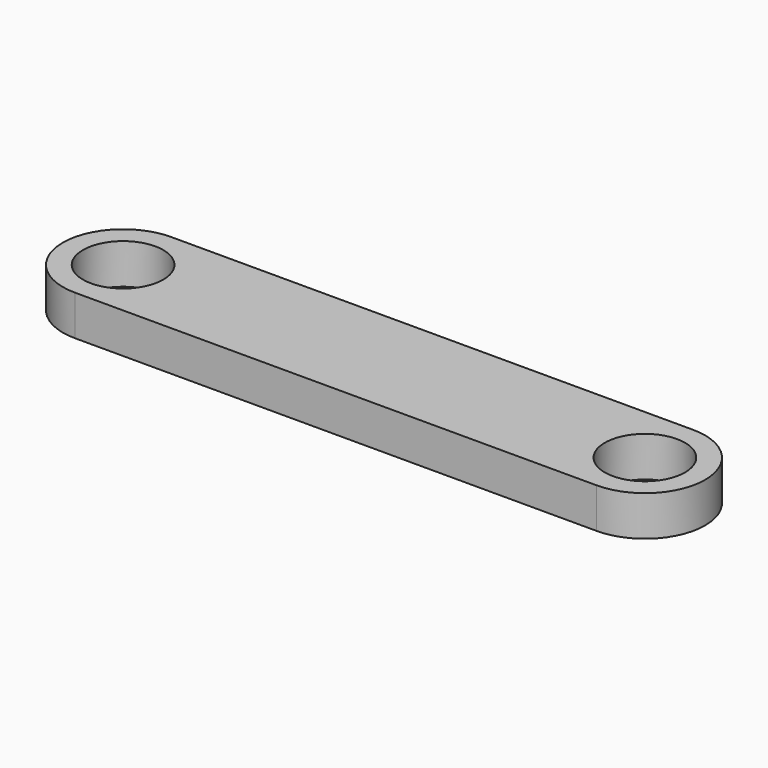
from build123d import *

# Parameters (mm, degrees)
SKETCH_R  = 10
PAD_DEPTH = 10


with BuildPart() as part:
    # Sketch → Pad (new body)
    with BuildSketch(Plane.XY):
        with BuildLine():
            Line((0, 15), (130, 15))
            ThreePointArc((130, -15), (145, 0), (130, 15))
            Line((130, -15), (0, -15))
            ThreePointArc((0, 15), (-15, 0), (0, -15))
        make_face()
        Circle(SKETCH_R, mode=Mode.SUBTRACT)
        with Locations((130, 0)):
            Circle(SKETCH_R, mode=Mode.SUBTRACT)
    extrude(amount=PAD_DEPTH)


solid = part.part
